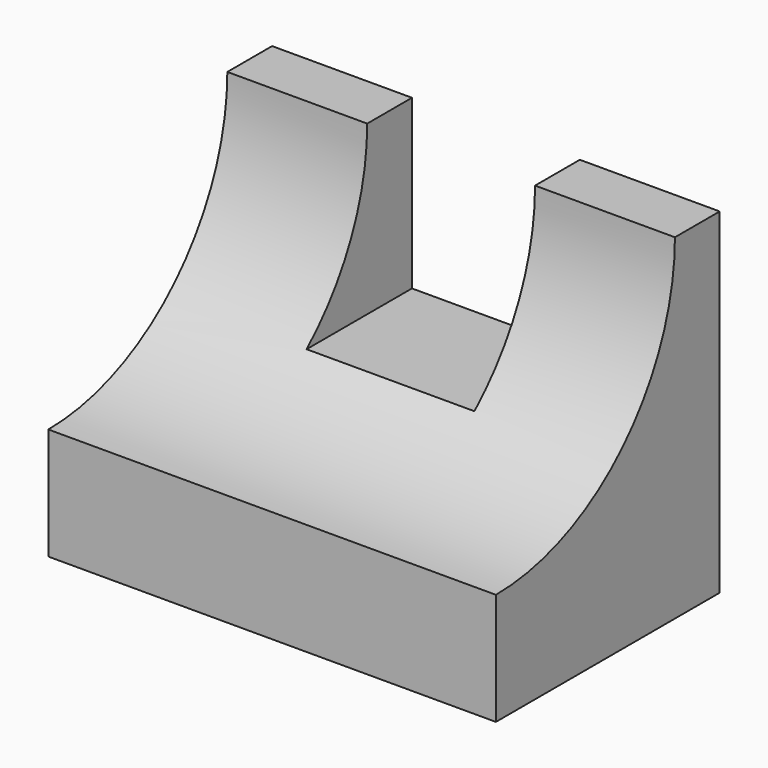
from build123d import *

# Parameters (mm, degrees)
F1_DEPTH = 101.6
F2_W     = 76.2
F2_H     = 76.2
F3_DEPTH = 60.797916699


with BuildPart() as f1:
    # F0 (on Right) → F1 (new body, symmetric)
    with BuildSketch(Plane.YZ):
        with BuildLine():
            Line((-127, 0), (0, 0))
            Line((0, 0), (0, 152.4))
            Line((0, 152.4), (-25.4, 152.4))
            ThreePointArc((-25.4, 152.4), (-55.1579510314, 80.5579510314), (-127, 50.8))
            Line((-127, 50.8), (-127, 0))
        make_face()
    extrude(amount=F1_DEPTH, both=True)

    # F2 (on face) → F3 (cut, up to face)
    with BuildSketch(Plane(origin=(0, 0, 0), x_dir=(-1, 0, 0), z_dir=(0, 1, 0))):
        with Locations((0, 114.3)):
            Rectangle(F2_W, F2_H)
    extrude(amount=-F3_DEPTH, mode=Mode.SUBTRACT)


solid = f1.part
